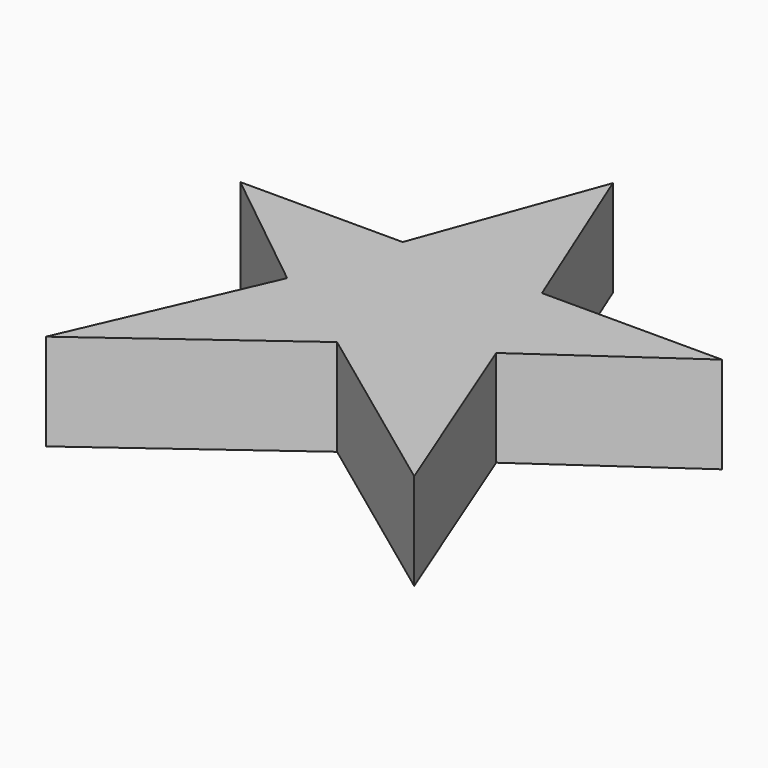
from build123d import *

# Parameters (mm, degrees)
PAD_DEPTH = 2


with BuildPart() as part:
    # Sketch → Pad (new body)
    with BuildSketch(Plane.XY):
        Polygon((10.04428, -13.75879), (13.406357, -13.75879), (14.770648, -10.026747), (16.28064, -13.748609), (20.006641, -13.748609), (17.011304, -15.847268), (18.672582, -20.043877), (14.765483, -17.155994), (10.974155, -19.94607), (12.737509, -15.912435), align=None)
    extrude(amount=PAD_DEPTH)


solid = part.part
